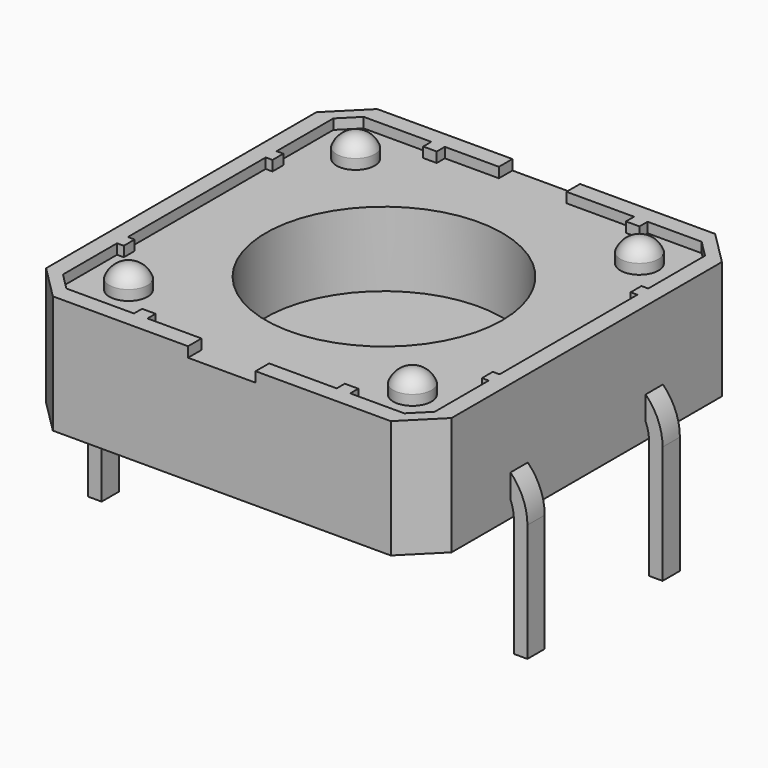
from build123d import *

# Parameters (mm, degrees)
SKETCH010_W              = 0.64
SKETCH010_H              = 0.4
SWEEP003_PLACEMENT_ANGLE = 90
SKETCH008_W              = 0.64
SKETCH008_H              = 0.4
SWEEP002_PLACEMENT_ANGLE = -90
SKETCH003_W              = 0.64
SKETCH003_H              = 0.4
SWEEP001_PLACEMENT_ANGLE = -90
CYLINDER017_R            = 3.5
CYLINDER017_DEPTH        = 10
BOX023_W                 = 2
BOX023_H                 = 15
BOX023_DEPTH             = 1
CYLINDER_R               = 0.6
CYLINDER_DEPTH           = 0.2
SPHERE002_ANGLE          = 180
SPHERE002_ROLL_ANGLE     = 90
CYLINDER016_R            = 0.6
CYLINDER016_DEPTH        = 0.2
SPHERE003_ANGLE          = 180
SPHERE003_ROLL_ANGLE     = 90
CYLINDER015_R            = 0.6
CYLINDER015_DEPTH        = 0.2
SPHERE_ANGLE             = 180
SPHERE_ROLL_ANGLE        = 90
CYLINDER007_R            = 0.6
CYLINDER007_DEPTH        = 0.2
SPHERE001_ANGLE          = 180
SPHERE001_ROLL_ANGLE     = 90
CYLINDER005_R            = 0.565
CYLINDER005_DEPTH        = 5
CYLINDER006_R            = 0.565
CYLINDER006_DEPTH        = 5
CYLINDER013_R            = 0.565
CYLINDER013_DEPTH        = 5
CYLINDER009_R            = 0.565
CYLINDER009_DEPTH        = 5
BOX024_W                 = 0.4
BOX024_H                 = 1
BOX024_DEPTH             = 1
BOX024_PLACEMENT_ANGLE   = 90
BOX029_W                 = 0.4
BOX029_H                 = 1
BOX029_DEPTH             = 1
BOX029_PLACEMENT_ANGLE   = 90
BOX019_W                 = 0.4
BOX019_H                 = 1
BOX019_DEPTH             = 1
BOX019_PLACEMENT_ANGLE   = 90
BOX018_W                 = 0.4
BOX018_H                 = 1
BOX018_DEPTH             = 1
BOX018_PLACEMENT_ANGLE   = 90
BOX017_W                 = 0.4
BOX017_H                 = 1
BOX017_DEPTH             = 1
BOX016_W                 = 0.4
BOX016_H                 = 1
BOX016_DEPTH             = 1
BOX028_W                 = 0.4
BOX028_H                 = 1
BOX028_DEPTH             = 1
BOX025_W                 = 0.4
BOX025_H                 = 1
BOX025_DEPTH             = 1
BOX031_W                 = 11
BOX031_H                 = 11
BOX031_DEPTH             = 0.4
CHAMFER006_SIZE          = 0.5
BOX027_W                 = 12
BOX027_H                 = 12
BOX027_DEPTH             = 3.5
CHAMFER007_SIZE          = 1
SKETCH009_W              = 0.64
SKETCH009_H              = 0.4
SWEEP004_PLACEMENT_ANGLE = 90


with BuildPart() as sweep003:
    # Sweep003: sweep along a path in Sketch005
    with BuildLine(Plane.YZ) as sweep003_path:
        Line((0, 0), (0, 3.48702))
        ThreePointArc((0, 3.48702), (-0.443142, 4.556858), (-1.51298, 5))
        Line((-1.51298, 5), (-2, 5))
    # Sketch010 → Sweep003 (sweep)
    with BuildSketch(Plane.XY):
        Rectangle(SKETCH010_W, SKETCH010_H)
    sweep(path=sweep003_path.line)


with BuildPart() as sweep003_1:
    # Sweep003 placement: moved
    add(sweep003.part.moved(Location((-6.3, -2.5, -3.5))).rotate(Axis((-6.3, -2.5, -3.5), (0, 0, 1)), SWEEP003_PLACEMENT_ANGLE))


with BuildPart() as sweep002:
    # Sweep002: sweep along a path in Sketch004
    with BuildLine(Plane.YZ) as sweep002_path:
        Line((0, 0), (0, 3.48702))
        ThreePointArc((0, 3.48702), (-0.443142, 4.556858), (-1.51298, 5))
        Line((-1.51298, 5), (-2, 5))
    # Sketch008 → Sweep002 (sweep)
    with BuildSketch(Plane.XY):
        Rectangle(SKETCH008_W, SKETCH008_H)
    sweep(path=sweep002_path.line)


with BuildPart() as sweep002_1:
    # Sweep002 placement: moved
    add(sweep002.part.moved(Location((6.3, 2.5, -3.5))).rotate(Axis((6.3, 2.5, -3.5), (0, 0, 1)), SWEEP002_PLACEMENT_ANGLE))


with BuildPart() as sweep001:
    # Sweep001: sweep along a path in Sketch002
    with BuildLine(Plane.YZ) as sweep001_path:
        Line((0, 0), (0, 3.48702))
        ThreePointArc((0, 3.48702), (-0.443142, 4.556858), (-1.51298, 5))
        Line((-1.51298, 5), (-2, 5))
    # Sketch003 → Sweep001 (sweep)
    with BuildSketch(Plane.XY):
        Rectangle(SKETCH003_W, SKETCH003_H)
    sweep(path=sweep001_path.line)


with BuildPart() as sweep001_1:
    # Sweep001 placement: moved
    add(sweep001.part.moved(Location((6.3, -2.5, -3.5))).rotate(Axis((6.3, -2.5, -3.5), (0, 0, 1)), SWEEP001_PLACEMENT_ANGLE))


with BuildPart() as cilindro014:
    # Cylinder017 → Cylinder017 (new body)
    with BuildSketch(Plane.XY.offset(1)):
        Circle(CYLINDER017_R)
    extrude(amount=CYLINDER017_DEPTH)


with BuildPart() as cubo017:
    # Box023 → Box023 (new body)
    with BuildSketch(Plane(origin=(-1, -8, 3.2), x_dir=(1, 0, 0), z_dir=(0, 0, 1))):
        with Locations((1, 7.5)):
            Rectangle(BOX023_W, BOX023_H)
    extrude(amount=BOX023_DEPTH)


with BuildPart() as cilindro010:
    # Cylinder → Cylinder (new body)
    with BuildSketch(Plane.XY):
        Circle(CYLINDER_R)
    extrude(amount=CYLINDER_DEPTH)


with BuildPart() as esfera:
    # Sphere002 → Sphere002 (revolve)
    with BuildSketch(Plane.XZ):
        with BuildLine():
            ThreePointArc((0, -0.6), (0.6, 0), (0, 0.6))
            Line((0, 0.6), (0, -0.6))
        make_face()
    revolve(axis=Axis((0, 0, 0), (0, 0, 1)), revolution_arc=SPHERE002_ANGLE)


with BuildPart() as esfera_1:
    # Sphere002 roll: moved
    add(esfera.part.rotate(Axis((0, 0, 0), (1, 0, 0)), SPHERE002_ROLL_ANGLE))


with BuildPart() as esfera_2:
    # Sphere002 placement: moved
    add(esfera_1.part)

    # Cut011: cut Cilindro010
    add(cilindro010.part, mode=Mode.SUBTRACT)


with BuildPart() as esfera_3:
    # Cut011 placement: moved
    add(esfera_2.part.moved(Location((-4.2, 4.2, 3.3))))


with BuildPart() as cilindro013:
    # Cylinder016 → Cylinder016 (new body)
    with BuildSketch(Plane.XY):
        Circle(CYLINDER016_R)
    extrude(amount=CYLINDER016_DEPTH)


with BuildPart() as esfera003:
    # Sphere003 → Sphere003 (revolve)
    with BuildSketch(Plane.XZ):
        with BuildLine():
            ThreePointArc((0, -0.6), (0.6, 0), (0, 0.6))
            Line((0, 0.6), (0, -0.6))
        make_face()
    revolve(axis=Axis((0, 0, 0), (0, 0, 1)), revolution_arc=SPHERE003_ANGLE)


with BuildPart() as esfera003_1:
    # Sphere003 roll: moved
    add(esfera003.part.rotate(Axis((0, 0, 0), (1, 0, 0)), SPHERE003_ROLL_ANGLE))


with BuildPart() as esfera003_2:
    # Sphere003 placement: moved
    add(esfera003_1.part)

    # Cut004: cut Cilindro013
    add(cilindro013.part, mode=Mode.SUBTRACT)


with BuildPart() as esfera003_3:
    # Cut004 placement: moved
    add(esfera003_2.part.moved(Location((-4.2, -4.2, 3.3))))


with BuildPart() as cilindro012:
    # Cylinder015 → Cylinder015 (new body)
    with BuildSketch(Plane.XY):
        Circle(CYLINDER015_R)
    extrude(amount=CYLINDER015_DEPTH)


with BuildPart() as esfera002:
    # Sphere → Sphere (revolve)
    with BuildSketch(Plane.XZ):
        with BuildLine():
            ThreePointArc((0, -0.6), (0.6, 0), (0, 0.6))
            Line((0, 0.6), (0, -0.6))
        make_face()
    revolve(axis=Axis((0, 0, 0), (0, 0, 1)), revolution_arc=SPHERE_ANGLE)


with BuildPart() as esfera002_1:
    # Sphere roll: moved
    add(esfera002.part.rotate(Axis((0, 0, 0), (1, 0, 0)), SPHERE_ROLL_ANGLE))


with BuildPart() as esfera002_2:
    # Sphere placement: moved
    add(esfera002_1.part)

    # Cut005: cut Cilindro012
    add(cilindro012.part, mode=Mode.SUBTRACT)


with BuildPart() as esfera002_3:
    # Cut005 placement: moved
    add(esfera002_2.part.moved(Location((4.2, -4.2, 3.3))))


with BuildPart() as cilindro011:
    # Cylinder007 → Cylinder007 (new body)
    with BuildSketch(Plane.XY):
        Circle(CYLINDER007_R)
    extrude(amount=CYLINDER007_DEPTH)


with BuildPart() as esfera001:
    # Sphere001 → Sphere001 (revolve)
    with BuildSketch(Plane.XZ):
        with BuildLine():
            ThreePointArc((0, -0.6), (0.6, 0), (0, 0.6))
            Line((0, 0.6), (0, -0.6))
        make_face()
    revolve(axis=Axis((0, 0, 0), (0, 0, 1)), revolution_arc=SPHERE001_ANGLE)


with BuildPart() as esfera001_1:
    # Sphere001 roll: moved
    add(esfera001.part.rotate(Axis((0, 0, 0), (1, 0, 0)), SPHERE001_ROLL_ANGLE))


with BuildPart() as esfera001_2:
    # Sphere001 placement: moved
    add(esfera001_1.part)

    # Cut021: cut Cilindro011
    add(cilindro011.part, mode=Mode.SUBTRACT)


with BuildPart() as esfera001_3:
    # Cut021 placement: moved
    add(esfera001_2.part.moved(Location((4.2, 4.2, 3.3))))


with BuildPart() as cilindro005:
    # Cylinder005 → Cylinder005 (new body)
    with BuildSketch(Plane(origin=(4.2, -4.2, 0), x_dir=(1, 0, 0), z_dir=(0, 0, 1))):
        Circle(CYLINDER005_R)
    extrude(amount=CYLINDER005_DEPTH)


with BuildPart() as cilindro004:
    # Cylinder006 → Cylinder006 (new body)
    with BuildSketch(Plane(origin=(-4.2, -4.2, 0), x_dir=(1, 0, 0), z_dir=(0, 0, 1))):
        Circle(CYLINDER006_R)
    extrude(amount=CYLINDER006_DEPTH)


with BuildPart() as cilindro003:
    # Cylinder013 → Cylinder013 (new body)
    with BuildSketch(Plane(origin=(4.2, 4.2, 0), x_dir=(1, 0, 0), z_dir=(0, 0, 1))):
        Circle(CYLINDER013_R)
    extrude(amount=CYLINDER013_DEPTH)


with BuildPart() as cilindro002:
    # Cylinder009 → Cylinder009 (new body)
    with BuildSketch(Plane(origin=(-4.2, 4.2, 0), x_dir=(1, 0, 0), z_dir=(0, 0, 1))):
        Circle(CYLINDER009_R)
    extrude(amount=CYLINDER009_DEPTH)


with BuildPart() as obj1:
    # Box024 → Box024 (new body)
    with BuildSketch(Plane.XY):
        with Locations((0.2, 0.5)):
            Rectangle(BOX024_W, BOX024_H)
    extrude(amount=BOX024_DEPTH)


with BuildPart() as obj1_1:
    # Box024 placement: moved
    add(obj1.part.moved(Location((6.3, -3, 3))).rotate(Axis((6.3, -3, 3), (0, 0, 1)), BOX024_PLACEMENT_ANGLE))


with BuildPart() as obj2:
    # Box029 → Box029 (new body)
    with BuildSketch(Plane.XY):
        with Locations((0.2, 0.5)):
            Rectangle(BOX029_W, BOX029_H)
    extrude(amount=BOX029_DEPTH)


with BuildPart() as obj2_1:
    # Box029 placement: moved
    add(obj2.part.moved(Location((6.3, 2.5, 3))).rotate(Axis((6.3, 2.5, 3), (0, 0, 1)), BOX029_PLACEMENT_ANGLE))


with BuildPart() as obj3:
    # Box019 → Box019 (new body)
    with BuildSketch(Plane.XY):
        with Locations((0.2, 0.5)):
            Rectangle(BOX019_W, BOX019_H)
    extrude(amount=BOX019_DEPTH)


with BuildPart() as obj3_1:
    # Box019 placement: moved
    add(obj3.part.moved(Location((-5.3, -3, 3))).rotate(Axis((-5.3, -3, 3), (0, 0, 1)), BOX019_PLACEMENT_ANGLE))


with BuildPart() as obj4:
    # Box018 → Box018 (new body)
    with BuildSketch(Plane.XY):
        with Locations((0.2, 0.5)):
            Rectangle(BOX018_W, BOX018_H)
    extrude(amount=BOX018_DEPTH)


with BuildPart() as obj4_1:
    # Box018 placement: moved
    add(obj4.part.moved(Location((-5.3, 2.5, 3))).rotate(Axis((-5.3, 2.5, 3), (0, 0, 1)), BOX018_PLACEMENT_ANGLE))


with BuildPart() as obj5:
    # Box017 → Box017 (new body)
    with BuildSketch(Plane(origin=(3, -6.2, 3), x_dir=(1, 0, 0), z_dir=(0, 0, 1))):
        with Locations((0.2, 0.5)):
            Rectangle(BOX017_W, BOX017_H)
    extrude(amount=BOX017_DEPTH)


with BuildPart() as obj6:
    # Box016 → Box016 (new body)
    with BuildSketch(Plane(origin=(-3, -6.2, 3), x_dir=(1, 0, 0), z_dir=(0, 0, 1))):
        with Locations((0.2, 0.5)):
            Rectangle(BOX016_W, BOX016_H)
    extrude(amount=BOX016_DEPTH)


with BuildPart() as obj7:
    # Box028 → Box028 (new body)
    with BuildSketch(Plane(origin=(3, 5.2, 3), x_dir=(1, 0, 0), z_dir=(0, 0, 1))):
        with Locations((0.2, 0.5)):
            Rectangle(BOX028_W, BOX028_H)
    extrude(amount=BOX028_DEPTH)


with BuildPart() as obj8:
    # Box025 → Box025 (new body)
    with BuildSketch(Plane(origin=(-3, 5.2, 3), x_dir=(1, 0, 0), z_dir=(0, 0, 1))):
        with Locations((0.2, 0.5)):
            Rectangle(BOX025_W, BOX025_H)
    extrude(amount=BOX025_DEPTH)


with BuildPart() as obj9:
    # Box031 → Box031 (new body)
    with BuildSketch(Plane(origin=(-5.5, -5.5, 3.6), x_dir=(1, 0, 0), z_dir=(0, 0, 1))):
        with Locations((5.5, 5.5)):
            Rectangle(BOX031_W, BOX031_H)
    extrude(amount=BOX031_DEPTH)

    # Chamfer006
    chamfer006_edges = [obj9.edges().sort_by_distance(p)[0] for p in [
        (-5.5, -5.5, 3.8),
        (-5.5, 5.5, 3.8),
        (5.5, -5.5, 3.8),
        (5.5, 5.5, 3.8),
    ]]
    chamfer(chamfer006_edges, length=CHAMFER006_SIZE)


with BuildPart() as obj9_1:
    # Chamfer006 placement: moved
    add(obj9.part.moved(Location((0, 0, -0.4))))

    # Cut018: cut obj8
    add(obj8.part, mode=Mode.SUBTRACT)

    # Cut033: cut obj7
    add(obj7.part, mode=Mode.SUBTRACT)

    # Cut022: cut obj6
    add(obj6.part, mode=Mode.SUBTRACT)

    # Cut029: cut obj5
    add(obj5.part, mode=Mode.SUBTRACT)

    # Cut017: cut obj4
    add(obj4_1.part, mode=Mode.SUBTRACT)

    # Cut009: cut obj3
    add(obj3_1.part, mode=Mode.SUBTRACT)

    # Cut010: cut obj2
    add(obj2_1.part, mode=Mode.SUBTRACT)

    # Cut030: cut obj1
    add(obj1_1.part, mode=Mode.SUBTRACT)

    # Cut013: cut Cilindro002
    add(cilindro002.part, mode=Mode.SUBTRACT)

    # Cut012: cut Cilindro003
    add(cilindro003.part, mode=Mode.SUBTRACT)

    # Cut015: cut Cilindro004
    add(cilindro004.part, mode=Mode.SUBTRACT)

    # Cut035: cut Cilindro005
    add(cilindro005.part, mode=Mode.SUBTRACT)


with BuildPart() as cut003:
    # Box027 → Box027 (new body)
    with BuildSketch(Plane.XY):
        with Locations((6, 6)):
            Rectangle(BOX027_W, BOX027_H)
    extrude(amount=BOX027_DEPTH)

    # Chamfer007
    chamfer007_edges = [cut003.edges().sort_by_distance(p)[0] for p in [
        (0, 0, 1.75),
        (0, 12, 1.75),
        (12, 0, 1.75),
        (12, 12, 1.75),
    ]]
    chamfer(chamfer007_edges, length=CHAMFER007_SIZE)


with BuildPart() as cut003_1:
    # Chamfer007 placement: moved
    add(cut003.part.moved(Location((-6, -6, 0))))

    # Cut014: cut obj9
    add(obj9_1.part, mode=Mode.SUBTRACT)

    # Fusion006: union esfera, esfera003, esfera002, esfera001
    add(esfera_3.part)
    add(esfera003_3.part)
    add(esfera002_3.part)
    add(esfera001_3.part)

    # Cut026: cut Cubo017
    add(cubo017.part, mode=Mode.SUBTRACT)

    # Cut003: cut Cilindro014
    add(cilindro014.part, mode=Mode.SUBTRACT)


with BuildPart() as obj10:
    # Sweep004: sweep along a path in Sketch006
    with BuildLine(Plane.YZ) as sweep004_path:
        Line((0, 0), (0, 3.48702))
        ThreePointArc((0, 3.48702), (-0.443142, 4.556858), (-1.51298, 5))
        Line((-1.51298, 5), (-2, 5))
    # Sketch009 → Sweep004 (sweep)
    with BuildSketch(Plane.XY):
        Rectangle(SKETCH009_W, SKETCH009_H)
    sweep(path=sweep004_path.line)


with BuildPart() as obj10_1:
    # Sweep004 placement: moved
    add(obj10.part.moved(Location((-6.3, 2.5, -3.5))).rotate(Axis((-6.3, 2.5, -3.5), (0, 0, 1)), SWEEP004_PLACEMENT_ANGLE))

    # Fusion003: union Sweep003, Sweep002, Sweep001, Cut003
    add(sweep003_1.part)
    add(sweep002_1.part)
    add(sweep001_1.part)
    add(cut003_1.part)


with BuildPart() as obj10_2:
    # Fusion003 placement: moved
    add(obj10_1.part.moved(Location((3.5, 2.3, 1))))


solid = obj10_2.part
